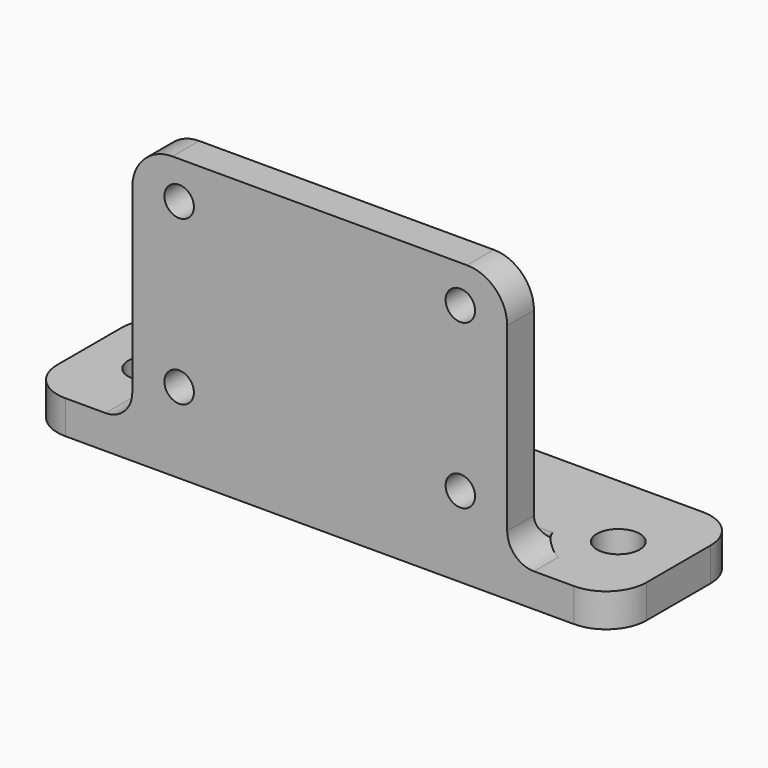
from build123d import *

# Parameters (mm, degrees)
CYLINDER004_R          = 4
CYLINDER004_DEPTH      = 5
ARRAY004_X_COUNT       = 2
ARRAY004_X_PITCH       = 35
CYLINDER003_R          = 3
CYLINDER003_DEPTH      = 10
CYLINDER003_ROLL_ANGLE = 90
ARRAY003_X_COUNT       = 2
ARRAY003_X_PITCH       = 21
CYLINDER001_R          = 1.1
CYLINDER001_DEPTH      = 50
CYLINDER001_ROLL_ANGLE = 90
ARRAY001_X_COUNT       = 2
ARRAY001_X_PITCH       = 21
ARRAY001_Z_COUNT       = 2
ARRAY001_Z_PITCH       = 12.2
CYLINDER002_R          = 1.6
CYLINDER002_DEPTH      = 10
ARRAY002_X_COUNT       = 2
ARRAY002_X_PITCH       = 35
BOX001_W               = 28
BOX001_H               = 2.5
BOX001_DEPTH           = 21
FILLET001_R            = 3
BOX002_W               = 44
BOX002_H               = 12
BOX002_DEPTH           = 2.5
FILLET_R               = 3
FILLET002_R            = 2


with BuildPart() as array004:
    # Cylinder004 → Cylinder004 (new body)
    with BuildSketch(Plane(origin=(-17.5, 0, 2.5), x_dir=(1, 0, 0), z_dir=(0, 0, 1))):
        Circle(CYLINDER004_R)
    extrude(amount=CYLINDER004_DEPTH)

    # Array004 X: Array004 ×2


with BuildPart() as array004_1:
    add(array004.part)
    with Locations(*[(i * ARRAY004_X_PITCH, 0, 0) for i in range(1, ARRAY004_X_COUNT)]):
        add(array004.part)


with BuildPart() as array003:
    # Cylinder003 → Cylinder003 (new body)
    with BuildSketch(Plane.XY):
        Circle(CYLINDER003_R)
    extrude(amount=CYLINDER003_DEPTH)


with BuildPart() as array003_1:
    # Cylinder003 roll: moved
    add(array003.part.rotate(Axis((0, 0, 0), (1, 0, 0)), CYLINDER003_ROLL_ANGLE))


with BuildPart() as array003_2:
    # Cylinder003 placement: moved
    add(array003_1.part.moved(Location((-10.5, 6.5, 6))))

    # Array003 X: Array003 ×2


with BuildPart() as array003_3:
    add(array003_2.part)
    with Locations(*[(i * ARRAY003_X_PITCH, 0, 0) for i in range(1, ARRAY003_X_COUNT)]):
        add(array003_2.part)


with BuildPart() as array001:
    # Cylinder001 → Cylinder001 (new body)
    with BuildSketch(Plane.XY):
        Circle(CYLINDER001_R)
    extrude(amount=CYLINDER001_DEPTH)


with BuildPart() as array001_1:
    # Cylinder001 roll: moved
    add(array001.part.rotate(Axis((0, 0, 0), (1, 0, 0)), CYLINDER001_ROLL_ANGLE))


with BuildPart() as array001_2:
    # Cylinder001 placement: moved
    add(array001_1.part.moved(Location((-10.5, 20, 6))))

    # Array001 X: Array001 ×2


with BuildPart() as array001_3:
    add(array001_2.part)
    with Locations(*[(i * ARRAY001_X_PITCH, 0, 0) for i in range(1, ARRAY001_X_COUNT)]):
        add(array001_2.part)

    # Array001 Z: Array001 ×2


with BuildPart() as array001_4:
    add(array001_3.part)
    with Locations(*[(0, 0, i * ARRAY001_Z_PITCH) for i in range(1, ARRAY001_Z_COUNT)]):
        add(array001_3.part)


with BuildPart() as fusion001:
    # Cylinder002 → Cylinder002 (new body)
    with BuildSketch(Plane(origin=(-17.5, 0, -1), x_dir=(1, 0, 0), z_dir=(0, 0, 1))):
        Circle(CYLINDER002_R)
    extrude(amount=CYLINDER002_DEPTH)

    # Array002 X: Fusion001 ×2


with BuildPart() as fusion001_1:
    add(fusion001.part)
    with Locations(*[(i * ARRAY002_X_PITCH, 0, 0) for i in range(1, ARRAY002_X_COUNT)]):
        add(fusion001.part)

    # Fusion001: union Array001
    add(array001_4.part)


with BuildPart() as fillet001:
    # Box001 → Box001 (new body)
    with BuildSketch(Plane(origin=(-14, -6, 0), x_dir=(1, 0, 0), z_dir=(0, 0, 1))):
        with Locations((14, 1.25)):
            Rectangle(BOX001_W, BOX001_H)
    extrude(amount=BOX001_DEPTH)

    # Fillet001
    fillet001_edges = [fillet001.edges().sort_by_distance(p)[0] for p in [
        (-14, -4.75, 21),
        (14, -4.75, 21),
    ]]
    fillet(fillet001_edges, radius=FILLET001_R)


with BuildPart() as cut002006002006:
    # Box002 → Box002 (new body)
    with BuildSketch(Plane(origin=(-22, -6, 0), x_dir=(1, 0, 0), z_dir=(0, 0, 1))):
        with Locations((22, 6)):
            Rectangle(BOX002_W, BOX002_H)
    extrude(amount=BOX002_DEPTH)

    # Fillet
    fillet_edges = [cut002006002006.edges().sort_by_distance(p)[0] for p in [
        (-22, -6, 1.25),
        (-22, 6, 1.25),
        (22, -6, 1.25),
        (22, 6, 1.25),
    ]]
    fillet(fillet_edges, radius=FILLET_R)

    # Fusion: union Fillet001
    add(fillet001.part)

    # Fillet002
    fillet002_edges = [cut002006002006.edges().sort_by_distance(p)[0] for p in [
        (14, -4.75, 2.5),
        (0, -3.5, 2.5),
        (-14, -4.75, 2.5),
    ]]
    fillet(fillet002_edges, radius=FILLET002_R)

    # Cut002006002004: cut Fusion001
    add(fusion001_1.part, mode=Mode.SUBTRACT)

    # Cut002006002005: cut Array003
    add(array003_3.part, mode=Mode.SUBTRACT)

    # Cut002006002006: cut Array004
    add(array004_1.part, mode=Mode.SUBTRACT)


solid = cut002006002006.part
